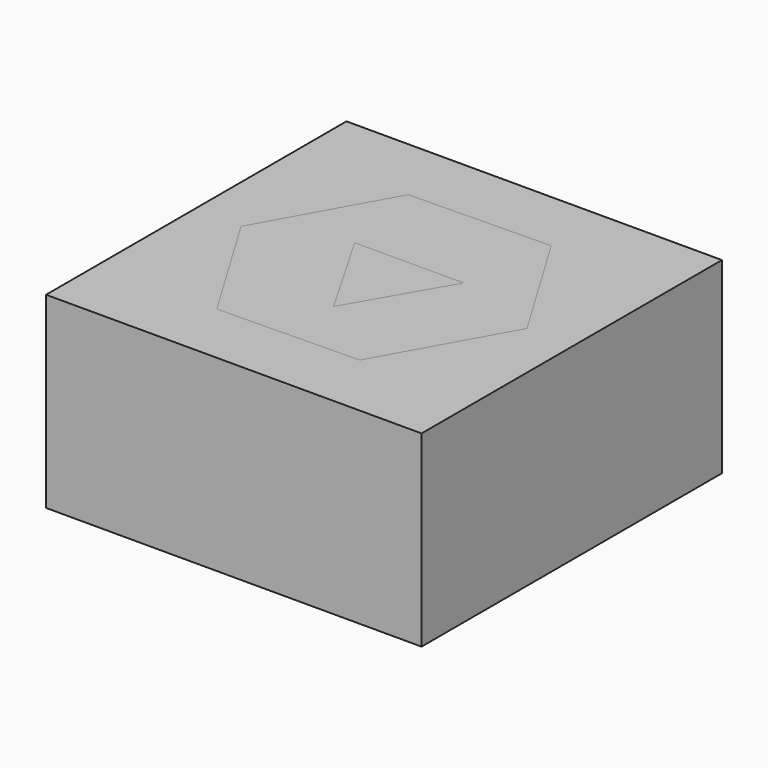
from build123d import *

# Parameters (mm, degrees)
F0_W     = 50.8
F0_H     = 50.8
F1_DEPTH = 25.4
F2_DEPTH = 25.4
F3_DEPTH = 25.4


with BuildPart() as f1:
    # F0 (on Top) → F1 (new body)
    with BuildSketch(Plane.XY):
        Rectangle(F0_W, F0_H)
        Polygon((-9.823491, 16.372484), (9.267241, 16.693634), (19.090732, 0.321151), (9.823491, -16.372484), (-9.267241, -16.693634), (-19.090732, -0.321151), align=None, mode=Mode.SUBTRACT)
    extrude(amount=F1_DEPTH)


with BuildPart() as f2:
    # F0 (on Top) → F2 (new body)
    with BuildSketch(Plane.XY):
        Polygon((19.090732, 0.321151), (9.267241, 16.693634), (-9.823491, 16.372484), (-19.090732, -0.321151), (-9.267241, -16.693634), (9.823491, -16.372484), align=None)
        Polygon((0, -8.507392), (-7.367618, 4.253696), (7.367618, 4.253696), align=None, mode=Mode.SUBTRACT)
    extrude(amount=F2_DEPTH)


with BuildPart() as f3:
    # F0 (on Top) → F3 (new body)
    with BuildSketch(Plane.XY):
        Polygon((7.367618, 4.253696), (-7.367618, 4.253696), (0, -8.507392), align=None)
    extrude(amount=F3_DEPTH)


solid = Compound([f1.part, f2.part, f3.part])
